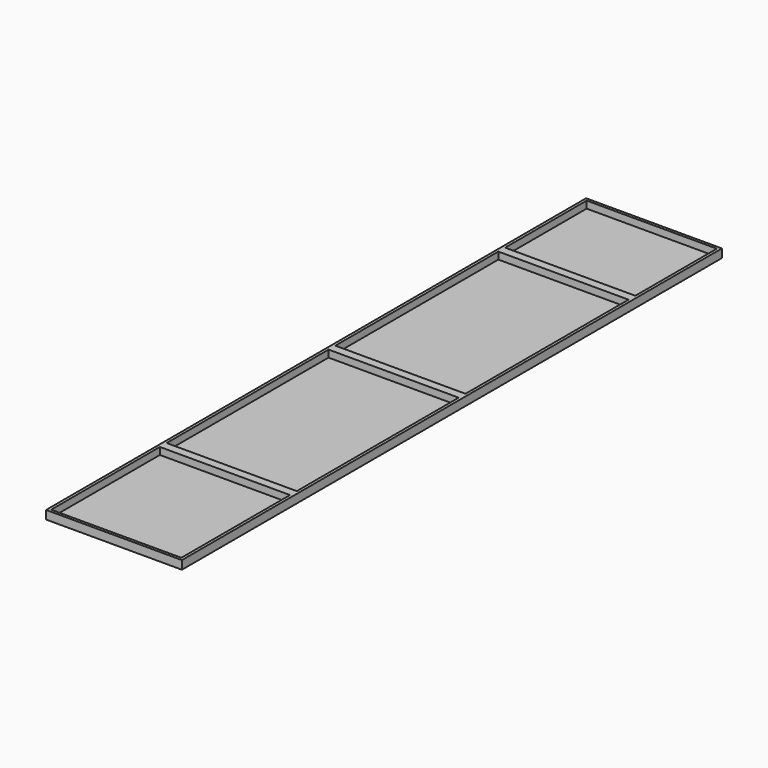
from build123d import *

# Parameters (mm, degrees)
F0_W     = 2438.4
F0_H     = 12115.8
F0_W_2   = 2336.8
F0_H_2   = 152.4
F1_DEPTH = 152.4
F0_H_3   = 1828.8
F0_H_4   = 3657.6
F0_H_5   = 3632.2
F0_H_6   = 2438.4
F2_DEPTH = 25.4


with BuildPart() as f1:
    # F0 (on Top) → F1 (new body)
    with BuildSketch(Plane.XY):
        with Locations((-311.798745, -368.3)):
            Rectangle(F0_W, F0_H)
        Polygon((856.601255, -6375.4), (-1480.198745, -6375.4), (-1480.198745, -3937), (-1480.198745, -3784.6), (-1480.198745, -152.4), (-1480.198745, 0), (-1480.198745, 3657.6), (-1480.198745, 3810), (-1480.198745, 5638.8), (856.601255, 5638.8), (856.601255, 3810), (856.601255, 3657.6), (856.601255, 0), (856.601255, -152.4), (856.601255, -3784.6), (856.601255, -3937), align=None, mode=Mode.SUBTRACT)
        with Locations((-311.798745, 3733.8)):
            Rectangle(F0_W_2, F0_H_2)
        with Locations((-311.798745, -76.2)):
            Rectangle(F0_W_2, F0_H_2)
        with Locations((-311.798745, -3860.8)):
            Rectangle(F0_W_2, F0_H_2)
    extrude(amount=F1_DEPTH)

    # F0 (on Top) → F2 (join)
    with BuildSketch(Plane.XY):
        with Locations((-311.798745, 4724.4)):
            Rectangle(F0_W_2, F0_H_3)
        with Locations((-311.798745, 1828.8)):
            Rectangle(F0_W_2, F0_H_4)
        with Locations((-311.798745, -1968.5)):
            Rectangle(F0_W_2, F0_H_5)
        with Locations((-311.798745, -5156.2)):
            Rectangle(F0_W_2, F0_H_6)
    extrude(amount=F2_DEPTH)


solid = f1.part
